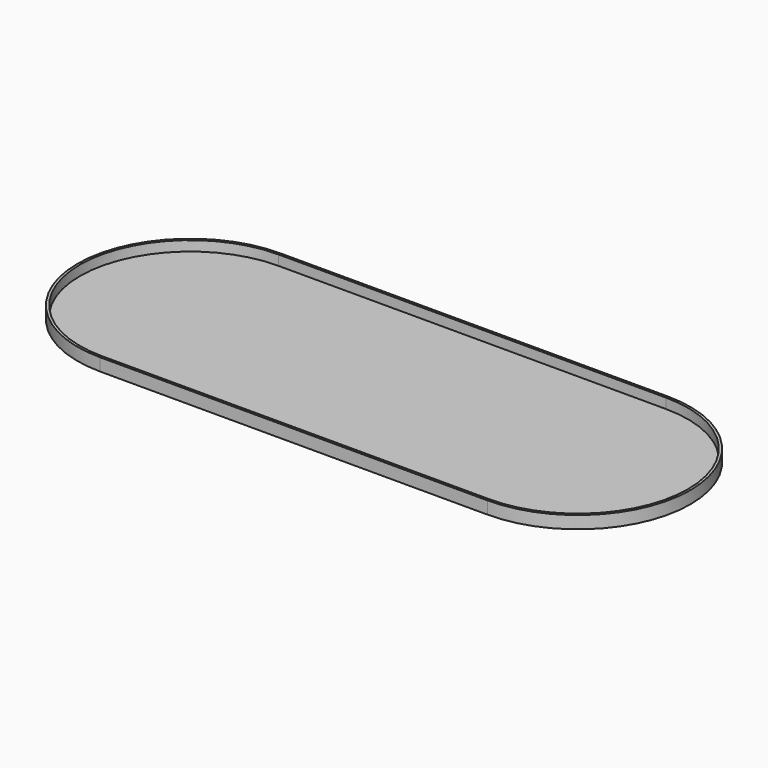
from build123d import *

# Parameters (mm, degrees)
F1_DEPTH = 6.35
F2_T     = -1.27


with BuildPart() as f1:
    # F0 (on Top) → F1 (new body)
    with BuildSketch(Plane.XY):
        with BuildLine():
            Line((0, 57.15), (-196.6468, 57.15))
            ThreePointArc((-196.6468, 57.15), (-253.7968, 0), (-196.6468, -57.15))
            Line((-196.6468, -57.15), (0, -57.15))
            ThreePointArc((0, -57.15), (57.15, 0), (0, 57.15))
        make_face()
    extrude(amount=F1_DEPTH)

    # F2
    f2_openings = [f1.faces().sort_by_distance(p)[0] for p in [
        (-98.3234, 0, 6.35),
    ]]
    offset(amount=F2_T, openings=f2_openings)


solid = f1.part
